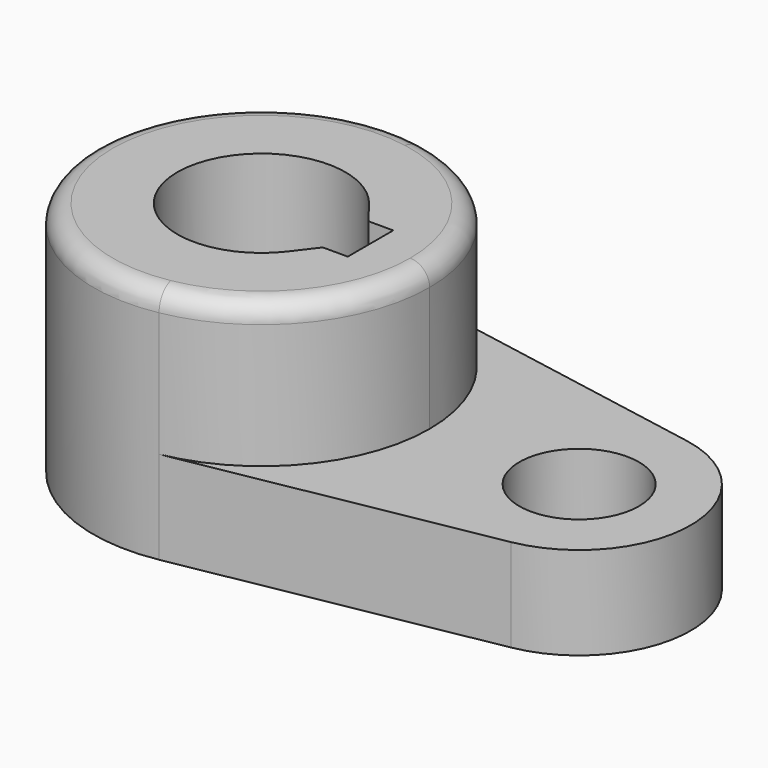
from build123d import *

# Parameters (mm, degrees)
F0_R     = 10.16
F1_DEPTH = 15.7734
F2_DEPTH = 40.2336
F3_R     = 3.302


with BuildPart() as f1:
    # F0 (on Top) → F1 (new body)
    with BuildSketch(Plane.XY):
        with BuildLine():
            ThreePointArc((-42.744664, 28.116476), (-25.908921, 18.3145), (-19.268134, 0))
            ThreePointArc((-19.268134, 0), (-25.908921, -18.3145), (-42.744664, -28.116476))
            Line((-42.744664, -28.116476), (9.512032, -18.640565))
            ThreePointArc((9.512032, -18.640565), (25.076422, 0), (9.512032, 18.640565))
            Line((9.512032, 18.640565), (-42.744664, 28.116476))
        make_face()
        with Locations((6.131866, 0)):
            Circle(F0_R, mode=Mode.SUBTRACT)
    extrude(amount=F1_DEPTH)

    # F0 (on Top) → F2 (join)
    with BuildSketch(Plane.XY):
        with BuildLine():
            ThreePointArc((-42.744664, -28.116476), (-25.908921, -18.3145), (-19.268134, 0))
            ThreePointArc((-19.268134, 0), (-25.908921, 18.3145), (-42.744664, 28.116476))
            ThreePointArc((-42.744664, 28.116476), (-76.418134, 0), (-42.744664, -28.116476))
        make_face()
        with BuildLine():
            ThreePointArc((-36.481987, -8.663543), (-62.130634, 0), (-36.481987, 8.663543))
            Line((-36.481987, 8.663543), (-33.555634, 4.826))
            Line((-33.555634, 4.826), (-29.313834, 4.826))
            Line((-29.313834, 4.826), (-29.313834, 0))
            Line((-29.313834, 0), (-29.313834, -4.826))
            Line((-29.313834, -4.826), (-33.555634, -4.826))
            Line((-33.555634, -4.826), (-36.481987, -8.663543))
        make_face(mode=Mode.SUBTRACT)
    extrude(amount=F2_DEPTH)

    # F3
    f3_edges = [f1.edges().sort_by_distance(p)[0] for p in [
        (-52.941605, 28.116476, 40.2336),
    ]]
    fillet(f3_edges, radius=F3_R)


solid = f1.part
